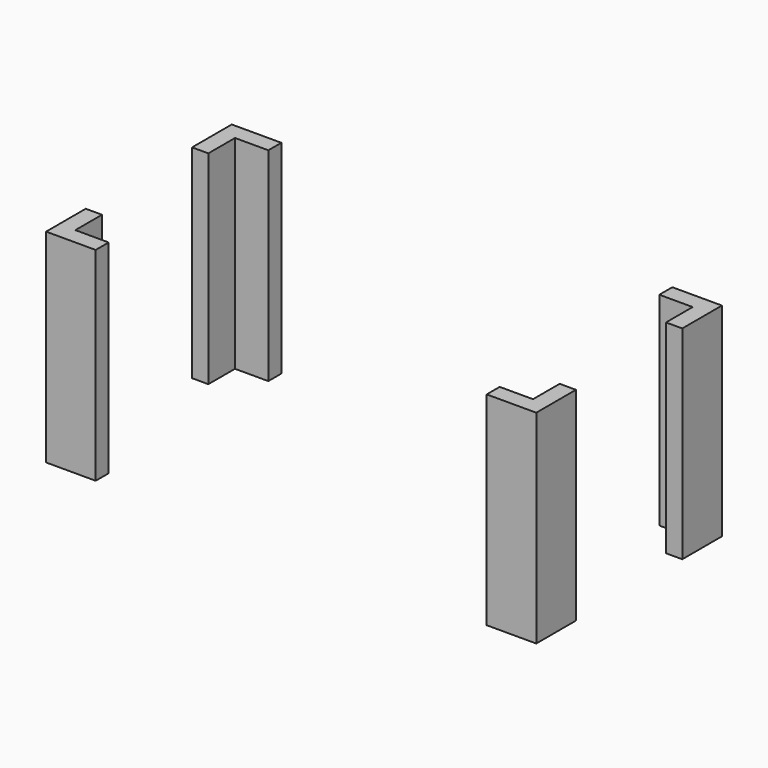
from build123d import *

# Parameters (mm, degrees)
CUBE009_W     = 60.3
CUBE009_H     = 16.35
CUBE009_DEPTH = 25
CUBE010_W     = 48.1
CUBE010_H     = 28.55
CUBE010_DEPTH = 25
CUBE008_W     = 56.3
CUBE008_H     = 24.55
CUBE008_DEPTH = 25
CUBE007_W     = 60.3
CUBE007_H     = 28.55
CUBE007_DEPTH = 25


with BuildPart() as cube009:
    # cube009 → cube009 (new body)
    with BuildSketch(Plane(origin=(0, 6.1, 0), x_dir=(1, 0, 0), z_dir=(0, 0, 1))):
        with Locations((30.15, 8.175)):
            Rectangle(CUBE009_W, CUBE009_H)
    extrude(amount=CUBE009_DEPTH)


with BuildPart() as cube010:
    # cube010 → cube010 (new body)
    with BuildSketch(Plane(origin=(6.1, 0, 0), x_dir=(1, 0, 0), z_dir=(0, 0, 1))):
        with Locations((24.05, 14.275)):
            Rectangle(CUBE010_W, CUBE010_H)
    extrude(amount=CUBE010_DEPTH)


with BuildPart() as union002:
    # cube008 → cube008 (new body)
    with BuildSketch(Plane(origin=(2, 2, 0), x_dir=(1, 0, 0), z_dir=(0, 0, 1))):
        with Locations((28.15, 12.275)):
            Rectangle(CUBE008_W, CUBE008_H)
    extrude(amount=CUBE008_DEPTH)

    # union002: union cube009, cube010
    add(cube009.part)
    add(cube010.part)


with BuildPart() as difference002:
    # cube007 → cube007 (new body)
    with BuildSketch(Plane.XY):
        with Locations((30.15, 14.275)):
            Rectangle(CUBE007_W, CUBE007_H)
    extrude(amount=CUBE007_DEPTH)

    # difference002: cut union002
    add(union002.part, mode=Mode.SUBTRACT)


with BuildPart() as difference002_1:
    # difference002 placement: moved
    add(difference002.part.moved(Location((0, -29.8, -1.5))))


solid = difference002_1.part
